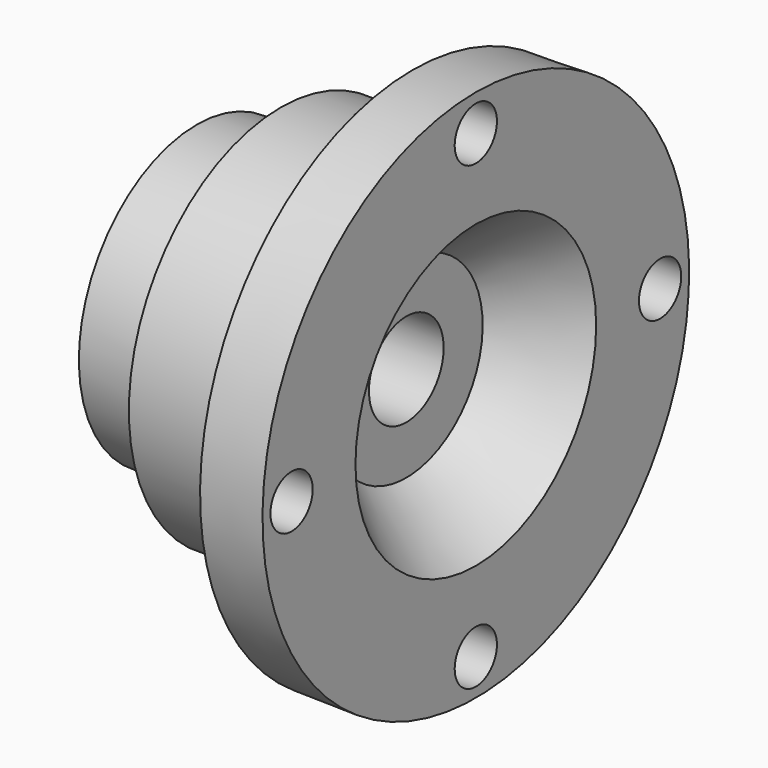
from build123d import *

# Parameters (mm, degrees)
F2_R     = 5.827464
F3_DEPTH = 25


with BuildPart() as f1:
    # F0 (on Front) → F1 (revolve)
    with BuildSketch(Plane.XZ):
        Polygon((24.037067, 33.194043), (24.037067, 58.833577), (10.072674, 58.604654), (10.072674, 41.893173), (-19.000728, 41.893173), (-19.000728, 32.507267), (-37.543606, 32.507267), (-37.543606, 10.301599), (8.699128, 10.301599), (8.699128, 21.061048), align=None)
    revolve(axis=Axis((-38.91715, 0, 0), (-1, 0, 0)))

    # F2 (on face) → F3 (cut)
    with BuildSketch(Plane(origin=(10.072674, 0, 0), x_dir=(0, -1, 0), z_dir=(-1, 0, 0))):
        with Locations((0, 50.821222)):
            Circle(F2_R)
        with Locations((-50.821222, 0)):
            Circle(F2_R)
        with Locations((0, -50.821222)):
            Circle(F2_R)
        with Locations((50.821222, 0)):
            Circle(F2_R)
    extrude(amount=-F3_DEPTH, mode=Mode.SUBTRACT)


solid = f1.part
